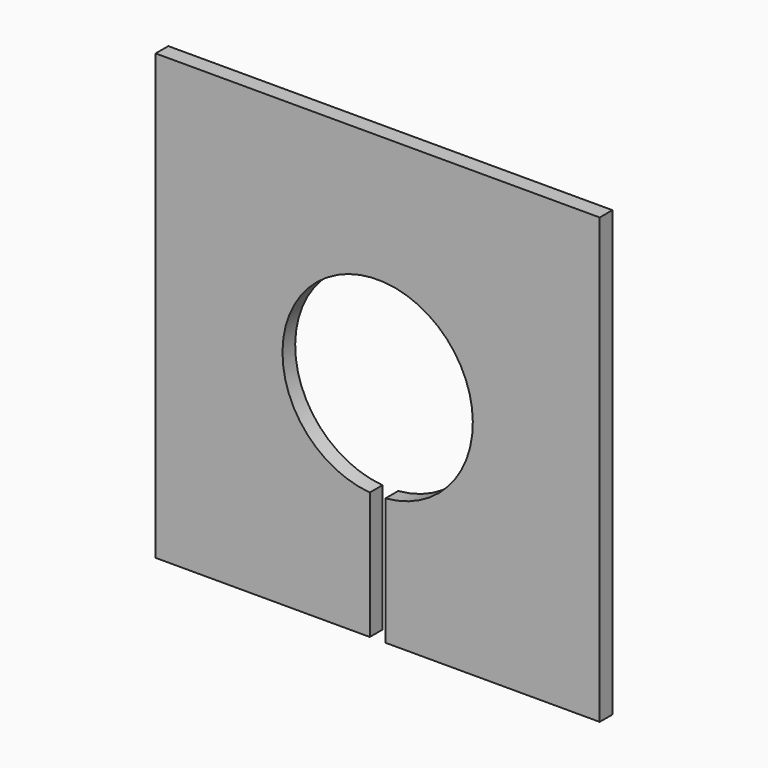
from build123d import *

# Parameters (mm, degrees)
F0_W     = 88.9
F0_H     = 88.9
F1_DEPTH = 3.175
F3_DEPTH = 25.4


with BuildPart() as f1:
    # F0 (on Front) → F1 (new body)
    with BuildSketch(Plane.XZ):
        Rectangle(F0_W, F0_H)
    extrude(amount=F1_DEPTH)

    # F2 (on face) → F3 (cut)
    with BuildSketch(Plane.XZ.offset(3.175)):
        with BuildLine():
            ThreePointArc((1.5748, -18.984797), (0, 19.05), (-1.5748, -18.984797))
            Line((-1.5748, -18.984797), (-1.5748, -44.45))
            Line((-1.5748, -44.45), (1.5748, -44.45))
            Line((1.5748, -44.45), (1.5748, -18.984797))
        make_face()
    extrude(amount=-F3_DEPTH, mode=Mode.SUBTRACT)


solid = f1.part
